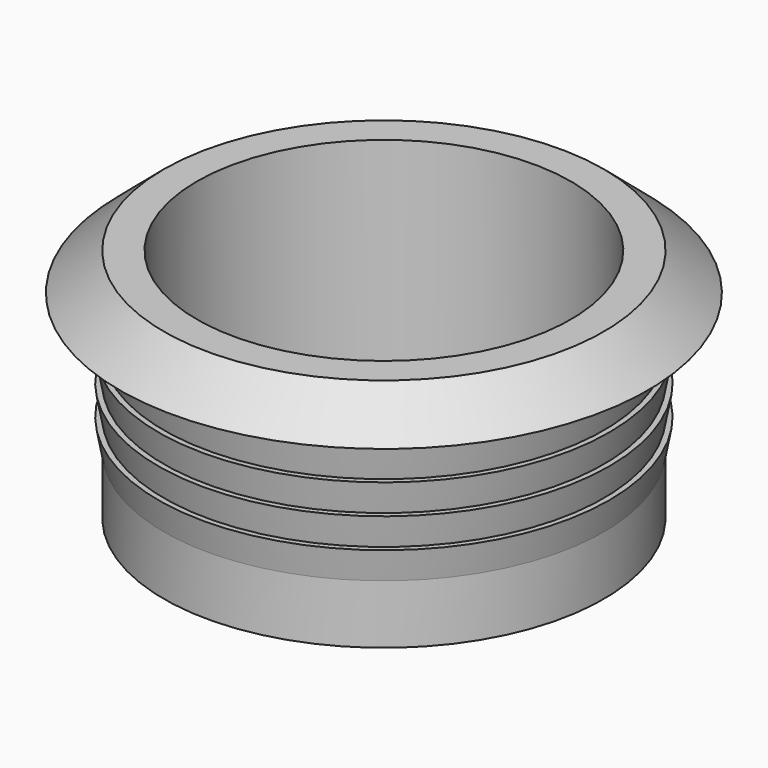
from build123d import *

# Parameters (mm, degrees)
F3_D = 17


with BuildPart() as f1:
    # F0 (on Front) → F1 (revolve)
    with BuildSketch(Plane.XZ):
        Polygon((-10, -1.820884), (-10, -4.5), (0, -4.5), (0, 6.2), (-10, 6.2), (-12, 4.5), (-10, 4.5), (-10, 3.607264), (-10.25, 3.607264), (-10, 2.250227), (-10.25, 2.250227), (-10, 0.89319), (-10.25, 0.89319), (-10, -0.463847), (-10.25, -0.463847), align=None)
    revolve(axis=Axis((0, 0, 0.85), (0, 0, -1)))

    # F3 (through all)
    with Locations(Plane.XY.offset(6.2)):
        with Locations((0, 0)):
            Hole(F3_D / 2)


solid = f1.part
